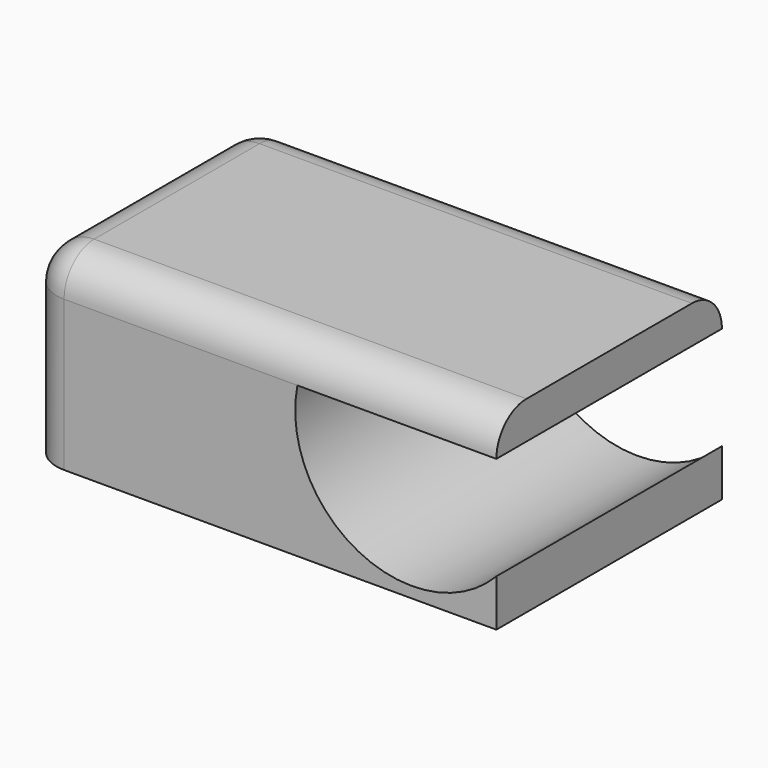
from build123d import *

# Parameters (mm, degrees)
F1_DEPTH = 25.4
F2_R     = 5.08
F3_R     = 5.08
F4_R     = 5.08
F6_DEPTH = 41.656


with BuildPart() as f1:
    # F0 (on Top) → F1 (new body)
    with BuildSketch(Plane.XY):
        Polygon((0, 38.1), (0, 0), (63.5, 0), (63.5, 38.1), (50.8, 38.1), (12.7, 38.1), align=None)
    extrude(amount=F1_DEPTH)

    # F2
    f2_edges = [f1.edges().sort_by_distance(p)[0] for p in [
        (0, 0, 12.7),
    ]]
    fillet(f2_edges, radius=F2_R)

    # F3
    f3_edges = [f1.edges().sort_by_distance(p)[0] for p in [
        (1.487898, 1.487898, 25.4),
    ]]
    fillet(f3_edges, radius=F3_R)

    # F4
    f4_edges = [f1.edges().sort_by_distance(p)[0] for p in [
        (34.29, 38.1, 25.4),
    ]]
    fillet(f4_edges, radius=F4_R)

    # F5 (on face) → F6 (cut)
    with BuildSketch(Plane.XZ):
        with BuildLine():
            Line((63.5, 20.32), (36.6062117726, 20.32))
            ThreePointArc((36.6062117726, 20.32), (44.8198393028, 3.2603855953), (63.5, 6.35))
            Line((63.5, 6.35), (63.5, 20.32))
        make_face()
    extrude(amount=-F6_DEPTH, mode=Mode.SUBTRACT)


solid = f1.part
